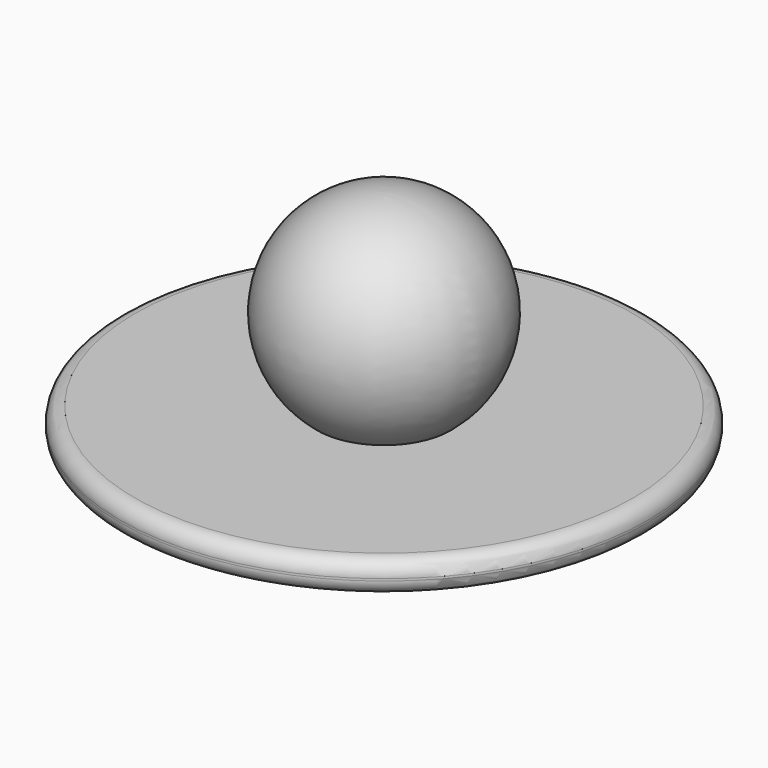
from build123d import *

# Parameters (mm, degrees)
F0_R     = 25
F1_DEPTH = 3
F4_R     = 1.4
F5_R     = 3.5
F6_DEPTH = 10


with BuildPart() as f1:
    # F0 (on Top) → F1 (new body)
    with BuildSketch(Plane.XY):
        Circle(F0_R)
    extrude(amount=F1_DEPTH)

    # F2 (on Front) → F3 (revolve)
    with BuildSketch(Plane.XZ):
        with BuildLine():
            Line((0, 10.14882), (0, 0.792952))
            ThreePointArc((0, 0.792952), (10.051117, 10.792821), (0, 20.792691))
            Line((0, 20.792691), (0, 10.14882))
        make_face()
    revolve(axis=Axis((0, 0, 5.470886), (0, 0, 1)))

    # F4
    f4_edges = [f1.edges().sort_by_distance(p)[0] for p in [
        (-25, 0, 0),
        (-25, 0, 3),
    ]]
    fillet(f4_edges, radius=F4_R)

    # F5 (on face) → F6 (cut)
    with BuildSketch(Plane(origin=(0, 0, 0), x_dir=(1, 0, 0), z_dir=(0, 0, -1))):
        Circle(F5_R)
    extrude(amount=-F6_DEPTH, mode=Mode.SUBTRACT)


solid = f1.part
